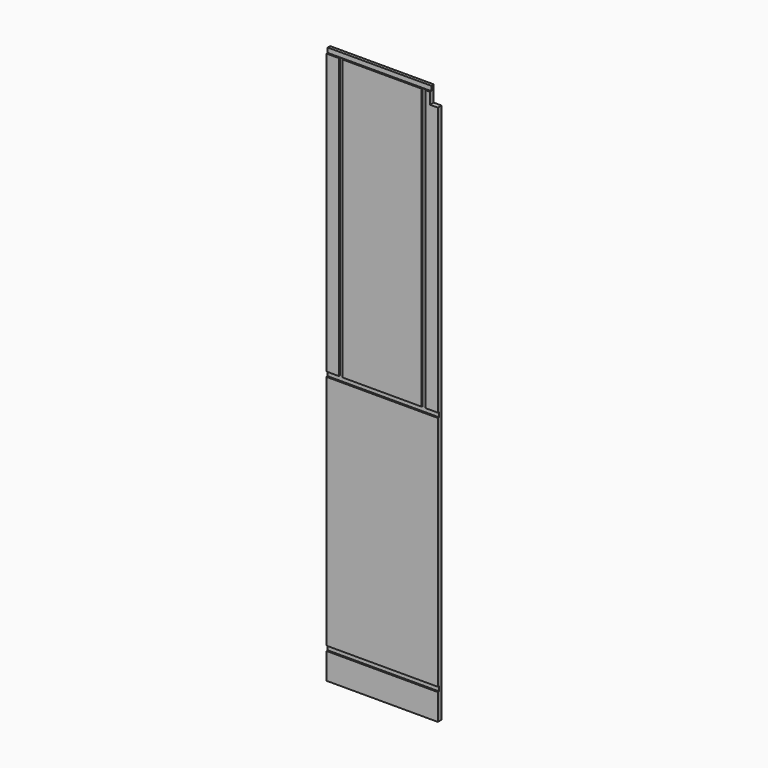
from build123d import *

# Parameters (mm, degrees)
F0_W     = 457.2
F0_H     = 2286
F1_DEPTH = 19.05
F2_W     = 32.004
F2_H     = 66.04
F3_DEPTH = 19.051
F4_W     = 530.741885
F4_H     = 19.304
F4_W_2   = 553.289723
F4_W_3   = 548.530197
F4_H_2   = 28.542519
F5_DEPTH = 6.35
F6_W     = 15.875
F6_H     = 1169.065192
F6_H_2   = 1174.501539
F7_DEPTH = 4.7625


with BuildPart() as f1:
    # F0 (on Front) → F1 (new body)
    with BuildSketch(Plane.XZ):
        with Locations((228.6, 1143)):
            Rectangle(F0_W, F0_H)
    extrude(amount=F1_DEPTH)

    # F2 (on face) → F3 (cut, through all)
    with BuildSketch(Plane.XZ.offset(19.05)):
        with Locations((441.198, 2252.98)):
            Rectangle(F2_W, F2_H)
    extrude(amount=-F3_DEPTH, mode=Mode.SUBTRACT)

    # F4 (on face) → F5 (cut)
    with BuildSketch(Plane.XZ.offset(19.05)):
        with Locations((253.698116, 117.348)):
            Rectangle(F4_W, F4_H)
        with Locations((251.708144, 1107.948)):
            Rectangle(F4_W_2, F4_H)
        with Locations((257.628393, 2280.96726)):
            Rectangle(F4_W_3, F4_H_2)
    extrude(amount=-F5_DEPTH, mode=Mode.SUBTRACT)

    # F6 (on face) → F7 (cut)
    with BuildSketch(Plane.XZ.offset(19.05)):
        with Locations((58.7375, 1692.303397)):
            Rectangle(F6_W, F6_H)
        with Locations((398.4625, 1694.760024)):
            Rectangle(F6_W, F6_H_2)
    extrude(amount=-F7_DEPTH, mode=Mode.SUBTRACT)


solid = f1.part
